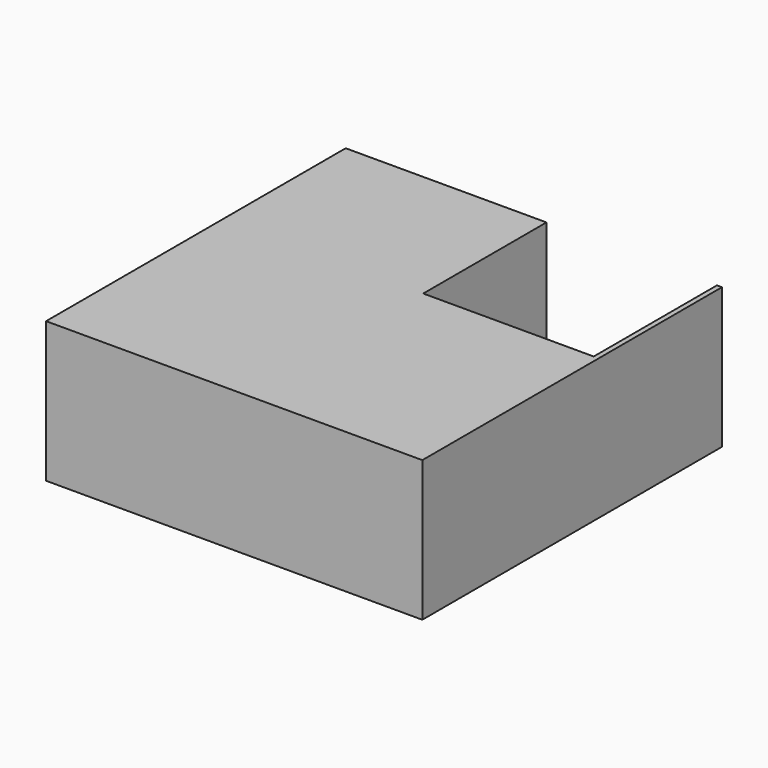
from build123d import *

# Parameters (mm, degrees)
F2_DEPTH = 55.817211


with BuildPart() as f2:
    # F1 (on face) → F2 (new body)
    with BuildSketch(Plane.XY):
        Polygon((5.025208, 0), (-40.942453, 0), (-74.720822, 0), (-74.720822, -148.748592), (74.720822, -148.748592), (74.720822, 0), (72.731361, 0), (72.731361, -61.175257), (5.025208, -61.175257), align=None)
    extrude(amount=F2_DEPTH)


solid = f2.part
